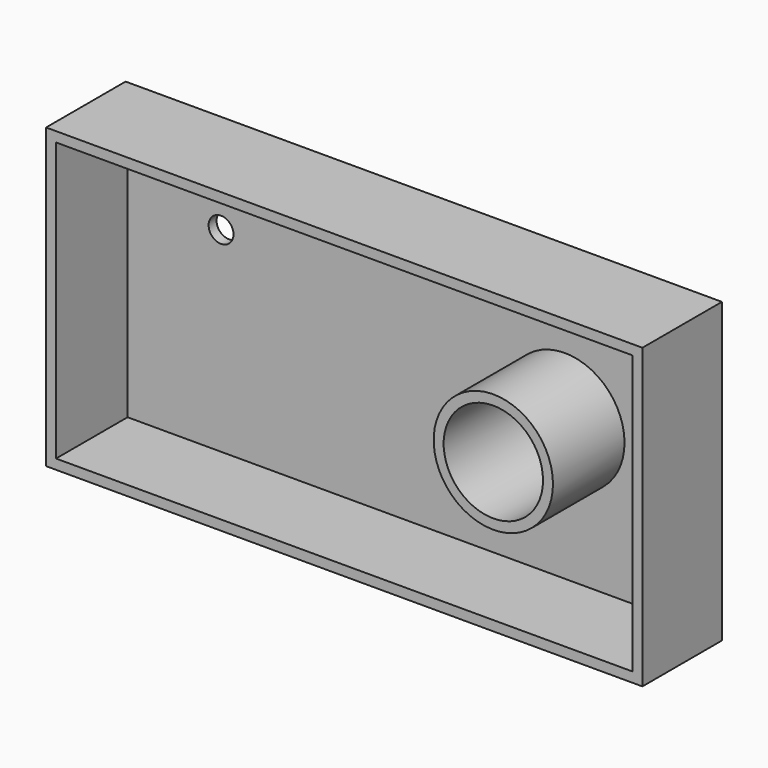
from build123d import *

# Parameters (mm, degrees)
F0_W     = 152.4
F0_H     = 76.2
F0_R     = 12.7
F1_DEPTH = 25.4
F2_T     = -2.54
F4_D     = 6.35


with BuildPart() as f1:
    # F0 (on Front) → F1 (new body)
    with BuildSketch(Plane.XZ):
        Rectangle(F0_W, F0_H)
        with Locations((38.1, 0)):
            Circle(F0_R, mode=Mode.SUBTRACT)
    extrude(amount=F1_DEPTH)

    # F2
    f2_openings = [f1.faces().sort_by_distance(p)[0] for p in [
        (-1.738273, -25.4, 0),
    ]]
    offset(amount=F2_T, openings=f2_openings)

    # F4 (through all)
    with Locations(Plane(origin=(0, 0, 0), x_dir=(1, 0, 0), z_dir=(0, 1, 0))):
        with Locations((-49.7758053243, -14.3796773627)):
            Hole(F4_D / 2)


solid = f1.part
